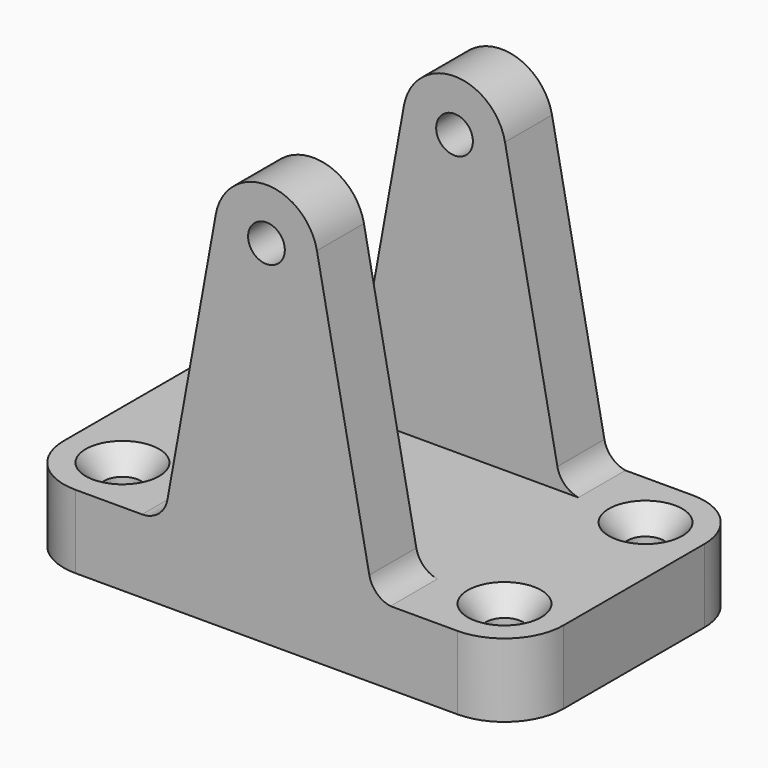
from build123d import *

# Parameters (mm, degrees)
F0_R     = 5
F0_R_2   = 2.5
F1_DEPTH = 10
F2_R     = 2.5
F3_DEPTH = 8
F4_START = -32
F4_DEPTH = 8
F5_DEPTH = 7


with BuildPart() as f1:
    # F0 (on Top) → F1 (new body)
    with BuildSketch(Plane.XY):
        with BuildLine():
            Line((26, 40), (-26, 40))
            ThreePointArc((-26, 40), (-31.6568542495, 37.6568542495), (-34, 32))
            Line((-34, 32), (-34, 8))
            ThreePointArc((-34, 8), (-31.6568542495, 2.3431457505), (-26, 0))
            Line((-26, 0), (26, 0))
            ThreePointArc((26, 0), (31.6568542495, 2.3431457505), (34, 8))
            Line((34, 8), (34, 32))
            ThreePointArc((34, 32), (31.6568542495, 37.6568542495), (26, 40))
        make_face()
        with Locations((-26, 8)):
            Circle(F0_R, mode=Mode.SUBTRACT)
        with Locations((26, 8)):
            Circle(F0_R, mode=Mode.SUBTRACT)
        with Locations((-26, 32)):
            Circle(F0_R, mode=Mode.SUBTRACT)
        with Locations((26, 32)):
            Circle(F0_R, mode=Mode.SUBTRACT)
        with Locations((-26, 32)):
            Circle(F0_R)
        with Locations((-26, 32)):
            Circle(F0_R_2, mode=Mode.SUBTRACT)
        with Locations((-26, 8)):
            Circle(F0_R)
        with Locations((-26, 8)):
            Circle(F0_R_2, mode=Mode.SUBTRACT)
        with Locations((26, 8)):
            Circle(F0_R)
        with Locations((26, 8)):
            Circle(F0_R_2, mode=Mode.SUBTRACT)
        with Locations((26, 32)):
            Circle(F0_R)
        with Locations((26, 32)):
            Circle(F0_R_2, mode=Mode.SUBTRACT)
        with Locations((26, 32)):
            Circle(F0_R_2)
        with Locations((26, 8)):
            Circle(F0_R_2)
        with Locations((-26, 8)):
            Circle(F0_R_2)
        with Locations((-26, 32)):
            Circle(F0_R_2)
    extrude(amount=F1_DEPTH)

    # F2 (on face) → F3 (join)
    with BuildSketch(Plane(origin=(0, 40, 0), x_dir=(-1, 0, 0), z_dir=(0, 1, 0))):
        with BuildLine():
            ThreePointArc((-14, 12.7841615349), (-14.9984986023, 10.9417491732), (-16.8705539605, 10))
            Line((-16.8705539605, 10), (16.922764346, 10))
            ThreePointArc((16.922764346, 10), (14.6793579532, 10.8135287538), (13.4788519072, 12.8759269962))
            Line((13.4788519072, 12.8759269962), (6.8878248776, 49.2481460075))
            ThreePointArc((6.8878248776, 49.2481460075), (6.9718998179, 48.6265883246), (7, 48))
            ThreePointArc((7, 48), (-0.673098164, 41.0324366625), (-6.8705539605, 49.3399583115))
            Line((-6.8705539605, 49.3399583115), (-14, 12.7841615349))
        make_face()
        with BuildLine():
            ThreePointArc((6.8878248776, 49.2481460075), (0.0467113041, 54.999844145), (-6.8705539605, 49.3399583115))
            ThreePointArc((-6.8705539605, 49.3399583115), (-0.673098164, 41.0324366625), (7, 48))
            ThreePointArc((7, 48), (6.9718998179, 48.6265883246), (6.8878248776, 49.2481460075))
        make_face()
        with Locations((0, 48)):
            Circle(F2_R, mode=Mode.SUBTRACT)
    extrude(amount=-F3_DEPTH)

    # F2 (on face) → F4 (join)
    with BuildSketch(Plane(origin=(0, 40, 0), x_dir=(-1, 0, 0), z_dir=(0, 1, 0)).offset(F4_START)):
        with BuildLine():
            ThreePointArc((-14, 12.7841615349), (-14.9984986023, 10.9417491732), (-16.8705539605, 10))
            Line((-16.8705539605, 10), (16.922764346, 10))
            ThreePointArc((16.922764346, 10), (14.6793579532, 10.8135287538), (13.4788519072, 12.8759269962))
            Line((13.4788519072, 12.8759269962), (6.8878248776, 49.2481460075))
            ThreePointArc((6.8878248776, 49.2481460075), (6.9718998179, 48.6265883246), (7, 48))
            ThreePointArc((7, 48), (-0.673098164, 41.0324366625), (-6.8705539605, 49.3399583115))
            Line((-6.8705539605, 49.3399583115), (-14, 12.7841615349))
        make_face()
        with BuildLine():
            ThreePointArc((6.8878248776, 49.2481460075), (0.0467113041, 54.999844145), (-6.8705539605, 49.3399583115))
            ThreePointArc((-6.8705539605, 49.3399583115), (-0.673098164, 41.0324366625), (7, 48))
            ThreePointArc((7, 48), (6.9718998179, 48.6265883246), (6.8878248776, 49.2481460075))
        make_face()
        with Locations((0, 48)):
            Circle(F2_R, mode=Mode.SUBTRACT)
    extrude(amount=-F4_DEPTH)

    # F0 (on Top) → F5 (cut)
    with BuildSketch(Plane.XY):
        with Locations((26, 8)):
            Circle(F0_R_2)
        with Locations((26, 32)):
            Circle(F0_R_2)
        with Locations((-26, 32)):
            Circle(F0_R_2)
        with Locations((-26, 8)):
            Circle(F0_R_2)
    extrude(amount=F5_DEPTH, mode=Mode.SUBTRACT)

    # F7 (on offset) → F8 (revolve, cut)
    with BuildSketch(Plane.XZ.offset(-8)):
        Polygon((-21, 10), (-26, 10), (-26, 7), (-23.5, 7), align=None)
    revolve(axis=Axis((-26, 8, 8.5), (0, 0, -1)), mode=Mode.SUBTRACT)

    # F9 (on offset) → F10 (revolve, cut)
    with BuildSketch(Plane.XZ.offset(-8)):
        Polygon((26, 7), (26, 10), (21, 10), (23.5, 7), align=None)
    revolve(axis=Axis((26, 8, 8.5), (0, 0, -1)), mode=Mode.SUBTRACT)

    # F12 (on offset) → F13 (revolve, cut)
    with BuildSketch(Plane(origin=(0, 32, 0), x_dir=(-1, 0, 0), z_dir=(0, 1, 0))):
        Polygon((-26, 7), (-26, 10), (-31, 10), (-28.5, 7), align=None)
    revolve(axis=Axis((26, 32, 8.5), (0, 0, -1)), mode=Mode.SUBTRACT)

    # F14 (on offset) → F15 (revolve, cut)
    with BuildSketch(Plane(origin=(0, 32, 0), x_dir=(-1, 0, 0), z_dir=(0, 1, 0))):
        Polygon((31, 10), (26, 10), (26, 7), (28.5, 7), align=None)
    revolve(axis=Axis((-26, 32, 8.5), (0, 0, -1)), mode=Mode.SUBTRACT)


solid = f1.part
